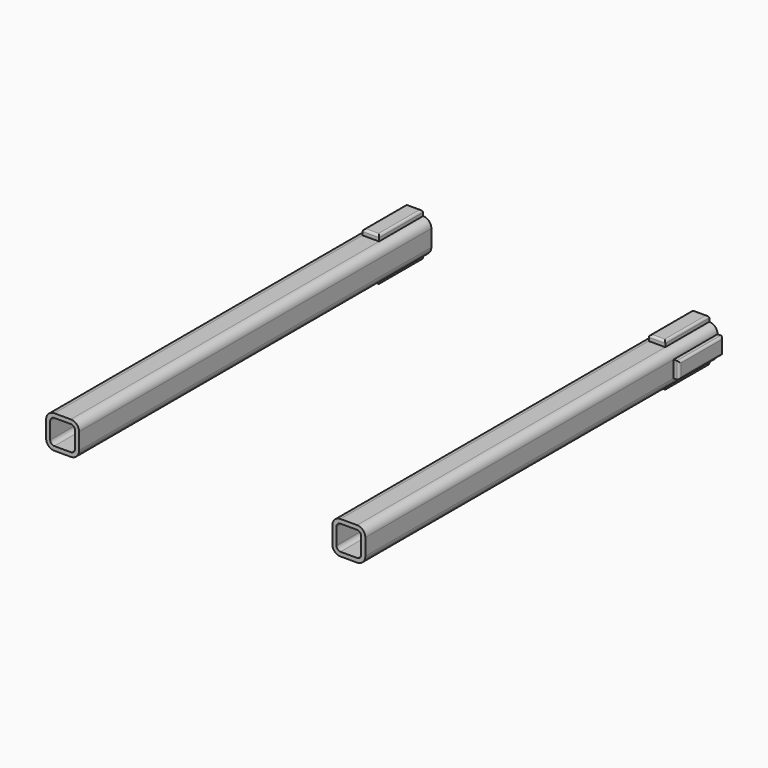
from build123d import *

# Parameters (mm, degrees)
F1_DEPTH = 254
F2_W     = 19.05
F2_H     = 63.5
F3_DEPTH = 6.35
F4_R     = 2.54
F5_W     = 63.5
F5_H     = 19.05
F6_DEPTH = 6.35
F7_R     = 2.54


with BuildPart() as f1:
    # F0 (on Front) → F1 (new body, symmetric)
    with BuildSketch(Plane.XZ):
        with BuildLine():
            Line((-155.575, 19.05), (-174.625, 19.05))
            ThreePointArc((-174.625, 19.05), (-181.360192, 16.260192), (-184.15, 9.525))
            Line((-184.15, 9.525), (-184.15, -9.525))
            ThreePointArc((-184.15, -9.525), (-181.360192, -16.260192), (-174.625, -19.05))
            Line((-174.625, -19.05), (-155.575, -19.05))
            ThreePointArc((-155.575, -19.05), (-148.839808, -16.260192), (-146.05, -9.525))
            Line((-146.05, -9.525), (-146.05, 9.525))
            ThreePointArc((-146.05, 9.525), (-148.839808, 16.260192), (-155.575, 19.05))
        make_face()
        with BuildLine():
            ThreePointArc((-179.3875, 9.525), (-177.992596, 12.892596), (-174.625, 14.2875))
            Line((-174.625, 14.2875), (-155.575, 14.2875))
            ThreePointArc((-155.575, 14.2875), (-152.207404, 12.892596), (-150.8125, 9.525))
            Line((-150.8125, 9.525), (-150.8125, -9.525))
            ThreePointArc((-150.8125, -9.525), (-152.207404, -12.892596), (-155.575, -14.2875))
            Line((-155.575, -14.2875), (-174.625, -14.2875))
            ThreePointArc((-174.625, -14.2875), (-177.992596, -12.892596), (-179.3875, -9.525))
            Line((-179.3875, -9.525), (-179.3875, 9.525))
        make_face(mode=Mode.SUBTRACT)
    extrude(amount=F1_DEPTH, both=True)


with BuildPart() as f3:
    # F2 (on face) → F3 (new body)
    with BuildSketch(Plane.XY.offset(19.05)):
        with Locations((-165.1, 222.25)):
            Rectangle(F2_W, F2_H)
    extrude(amount=F3_DEPTH)

    # F4
    f4_edges = [f3.edges().sort_by_distance(p)[0] for p in [
        (-165.1, 254, 25.4),
        (-174.625, 222.25, 25.4),
        (-165.1, 190.5, 25.4),
        (-155.575, 222.25, 25.4),
    ]]
    fillet(f4_edges, radius=F4_R)


with BuildPart() as f6:
    # F5 (on face) → F6 (new body)
    with BuildSketch(Plane(origin=(-184.15, 0, 0), x_dir=(0, -1, 0), z_dir=(-1, 0, 0))):
        with Locations((-222.25, 0)):
            Rectangle(F5_W, F5_H)
    extrude(amount=F6_DEPTH)

    # F7
    f7_edges = [f6.edges().sort_by_distance(p)[0] for p in [
        (-190.5, 222.25, 9.525),
        (-190.5, 254, 0),
        (-190.5, 222.25, -9.525),
        (-190.5, 190.5, 0),
    ]]
    fillet(f7_edges, radius=F7_R)


with BuildPart() as f8_1:
    # F8: instance of F3
    add(f3.part.mirror(Plane.XY))


with BuildPart() as f9_1:
    # F9: instance of F1
    add(f1.part.mirror(Plane.YZ))


with BuildPart() as f9_2:
    # F9: instance of F3
    add(f3.part.mirror(Plane.YZ))


with BuildPart() as f9_3:
    # F9: instance of F6
    add(f6.part.mirror(Plane.YZ))


with BuildPart() as f9_4:
    # F9: instance of F8_1
    add(f8_1.part.mirror(Plane.YZ))


solid = Compound([f1.part, f3.part, f6.part, f8_1.part, f9_1.part, f9_2.part, f9_3.part, f9_4.part])
